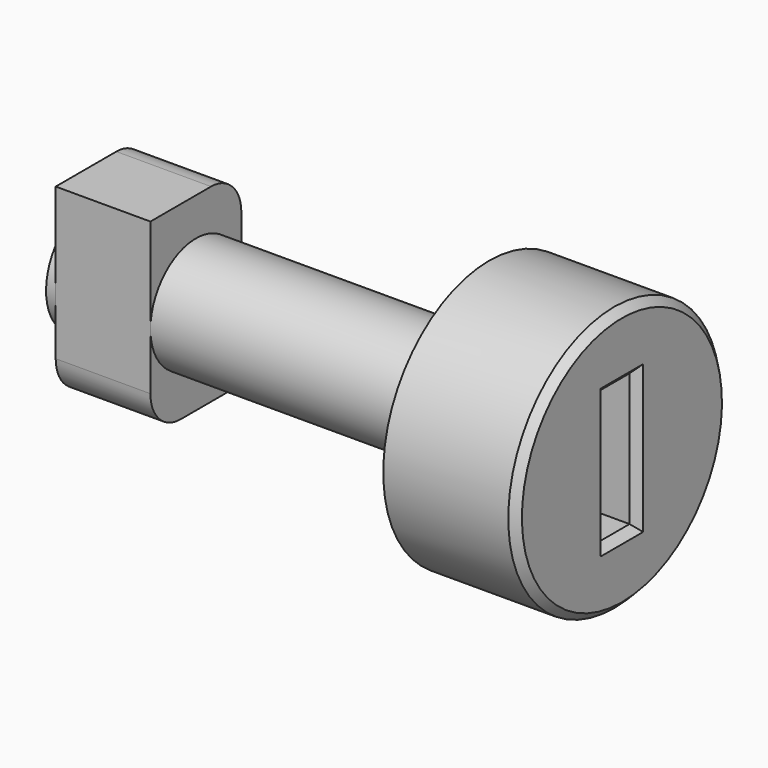
from build123d import *

# Parameters (mm, degrees)
BOX020_W                    = 7
BOX020_H                    = 2
BOX020_DEPTH                = 7
BOX019_W                    = 5
BOX019_H                    = 6
BOX019_DEPTH                = 10
FILLET_R                    = 2
CYLINDER024_R               = 3
CYLINDER024_DEPTH           = 27
CYLINDER024_PLACEMENT_ANGLE = 89.98
CYLINDER025_R               = 7
CYLINDER025_DEPTH           = 7
CYLINDER025_PLACEMENT_ANGLE = 89.98
CHAMFER016_SIZE             = 0.4


with BuildPart() as cube020:
    # Box020 → Box020 (new body)
    with BuildSketch(Plane(origin=(15, -121, 21.5), x_dir=(1, 0, 0), z_dir=(0, 0, 1))):
        with Locations((3.5, 1)):
            Rectangle(BOX020_W, BOX020_H)
    extrude(amount=BOX020_DEPTH)


with BuildPart() as fillet_body:
    # Box019 → Box019 (new body)
    with BuildSketch(Plane(origin=(-7.5, -123, 20), x_dir=(1, 0, 0), z_dir=(0, 0, 1))):
        with Locations((2.5, 3)):
            Rectangle(BOX019_W, BOX019_H)
    extrude(amount=BOX019_DEPTH)

    # Fillet
    fillet_edges = [fillet_body.edges().sort_by_distance(p)[0] for p in [
        (-5, -123, 20),
        (-5, -117, 30),
    ]]
    fillet(fillet_edges, radius=FILLET_R)


with BuildPart() as cylinder024:
    # Cylinder024 → Cylinder024 (new body)
    with BuildSketch(Plane.XY):
        Circle(CYLINDER024_R)
    extrude(amount=CYLINDER024_DEPTH)


with BuildPart() as cylinder024_1:
    # Cylinder024 placement: moved
    add(cylinder024.part.moved(Location((-8.008726, -120, 24.997206))).rotate(Axis((-8.008726, -120, 24.997206), (0, 1, 0)), CYLINDER024_PLACEMENT_ANGLE))


with BuildPart() as lock:
    # Cylinder025 → Cylinder025 (new body)
    with BuildSketch(Plane.XY):
        Circle(CYLINDER025_R)
    extrude(amount=CYLINDER025_DEPTH)


with BuildPart() as lock_1:
    # Cylinder025 placement: moved
    add(lock.part.moved(Location((12.991273, -120, 25.004536))).rotate(Axis((12.991273, -120, 25.004536), (0, 1, 0)), CYLINDER025_PLACEMENT_ANGLE))

    # Fusion003009: union Fillet body, Cylinder024
    add(fillet_body.part)
    add(cylinder024_1.part)

    # Cut034: cut Cube020
    add(cube020.part, mode=Mode.SUBTRACT)

    # Chamfer016
    chamfer016_edges = [lock_1.edges().sort_by_distance(p)[0] for p in [
        (19.988829, -120, 32.006979),
        (19.992496, -120, 21.5),
        (19.991275, -119, 25),
        (19.990053, -120, 28.5),
        (19.991275, -121, 25),
    ]]
    chamfer(chamfer016_edges, length=CHAMFER016_SIZE)


solid = lock_1.part
